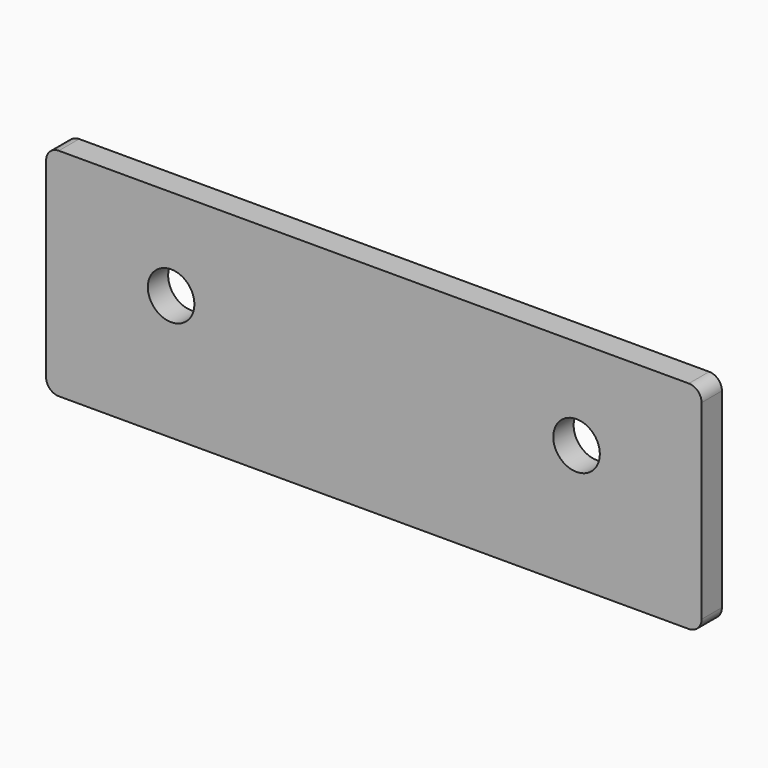
from build123d import *

# Parameters (mm, degrees)
F0_W     = 327.289753
F0_H     = 107.929777
F0_R     = 11.624246
F1_DEPTH = 12.7
F2_R     = 6.35


with BuildPart() as f1:
    # F0 (on Front) → F1 (new body)
    with BuildSketch(Plane.XZ):
        with Locations((20.452689, 12.309231)):
            Rectangle(F0_W, F0_H)
        with Locations((-80.767942, 20.768589)):
            Circle(F0_R, mode=Mode.SUBTRACT)
        with Locations((121.673319, 20.768589)):
            Circle(F0_R, mode=Mode.SUBTRACT)
    extrude(amount=F1_DEPTH)

    # F2
    f2_edges = [f1.edges().sort_by_distance(p)[0] for p in [
        (-143.192188, -6.35, 66.27412),
        (-143.192188, -6.35, -41.655657),
        (184.097565, -6.35, -41.655657),
        (184.097565, -6.35, 66.27412),
    ]]
    fillet(f2_edges, radius=F2_R)


solid = f1.part
